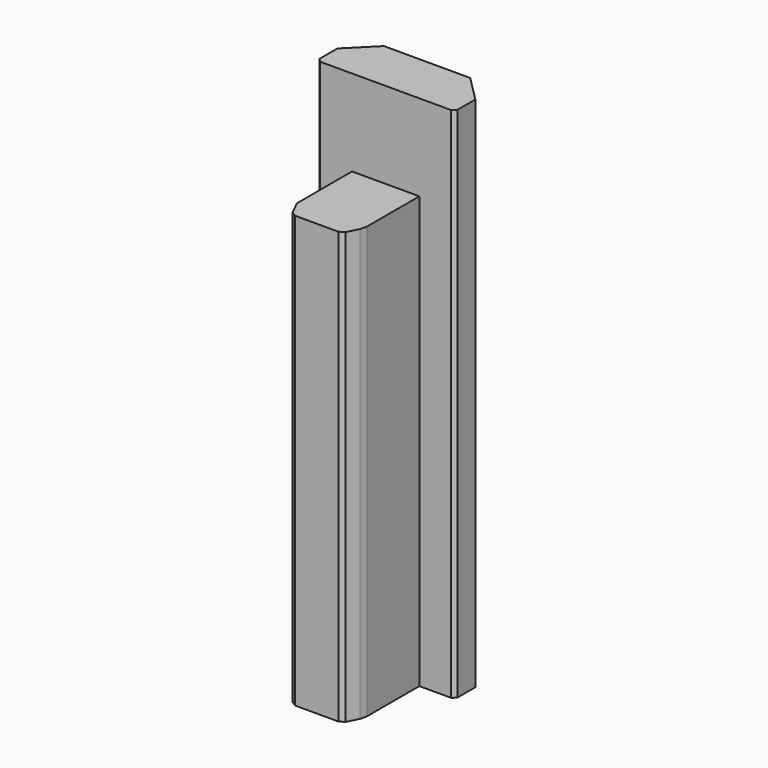
from build123d import *

# Parameters (mm, degrees)
BOX016_W                 = 16
BOX016_H                 = 6
BOX016_DEPTH             = 60
CHAMFER002001016_SIZE    = 3
BOX017_W                 = 7.8
BOX017_H                 = 10
BOX017_DEPTH             = 50
CHAMFER002001017_1_SIZE2 = 1
CHAMFER002001017_1_SIZE  = 2
CHAMFER002001017_2_SIZE2 = 1
CHAMFER002001017_2_SIZE  = 2
CHAMFER002001018_SIZE    = 0.4


with BuildPart() as chamfer002001016:
    # Box016 → Box016 (new body)
    with BuildSketch(Plane(origin=(-8, 2, 0), x_dir=(1, 0, 0), z_dir=(0, 0, 1))):
        with Locations((8, 3)):
            Rectangle(BOX016_W, BOX016_H)
    extrude(amount=BOX016_DEPTH)

    # Chamfer002001016
    chamfer002001016_edges = [chamfer002001016.edges().sort_by_distance(p)[0] for p in [
        (-8, 8, 30),
        (8, 8, 30),
    ]]
    chamfer(chamfer002001016_edges, length=CHAMFER002001016_SIZE)


with BuildPart() as chamfer002001018:
    # Box017 → Box017 (new body)
    with BuildSketch(Plane(origin=(-3.9, -8, 0), x_dir=(1, 0, 0), z_dir=(0, 0, 1))):
        with Locations((3.9, 5)):
            Rectangle(BOX017_W, BOX017_H)
    extrude(amount=BOX017_DEPTH)

    # Chamfer002001017 1
    chamfer002001017_1_edges = [chamfer002001018.edges().sort_by_distance(p)[0] for p in [
        (3.9, -8, 25),
    ]]
    chamfer002001017_1_side = chamfer002001018.faces().sort_by_distance((3.9, -3, 25))[0]
    chamfer(chamfer002001017_1_edges, length=CHAMFER002001017_1_SIZE, length2=CHAMFER002001017_1_SIZE2, reference=chamfer002001017_1_side)

    # Chamfer002001017 2
    chamfer002001017_2_edges = [chamfer002001018.edges().sort_by_distance(p)[0] for p in [
        (-3.9, -8, 25),
    ]]
    chamfer002001017_2_side = chamfer002001018.faces().sort_by_distance((-3.9, -3, 25))[0]
    chamfer(chamfer002001017_2_edges, length=CHAMFER002001017_2_SIZE, length2=CHAMFER002001017_2_SIZE2, reference=chamfer002001017_2_side)

    # Fusion003012003003: union Chamfer002001016
    add(chamfer002001016.part)

    # Chamfer002001018
    chamfer002001018_edges = [chamfer002001018.edges().sort_by_distance(p)[0] for p in [
        (-8, 2, 30),
        (8, 2, 30),
        (3.9, -6, 25),
        (-2.9, -8, 25),
        (2.9, -8, 25),
    ]]
    chamfer(chamfer002001018_edges, length=CHAMFER002001018_SIZE)


solid = chamfer002001018.part
